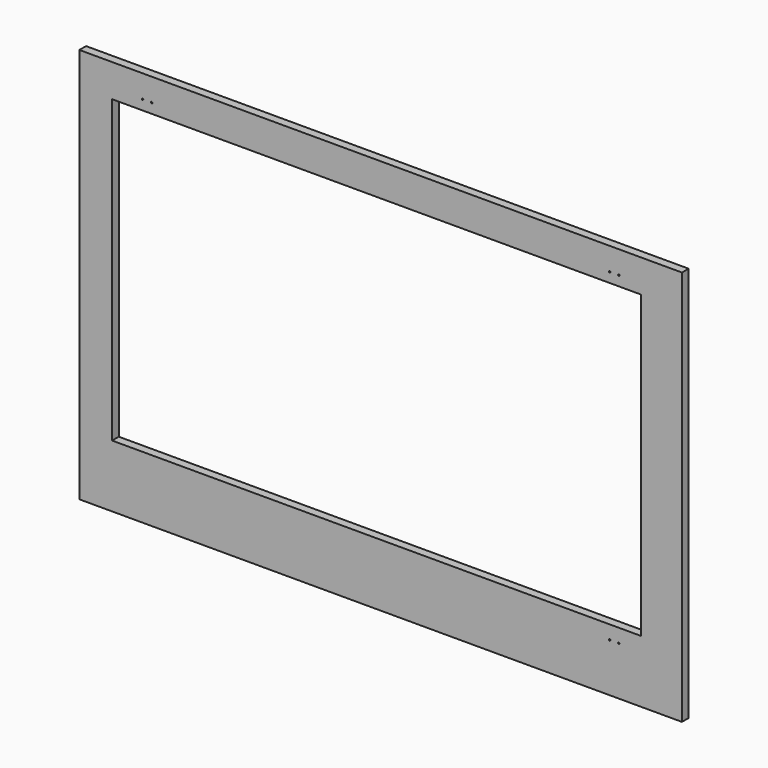
from build123d import *

# Parameters (mm, degrees)
F0_W     = 396
F0_H     = 260
F0_R     = 0.5
F0_W_2   = 347.75
F0_H_2   = 197.5
F1_DEPTH = 5.5


with BuildPart() as f1:
    # F0 (on Front) → F1 (new body)
    with BuildSketch(Plane.XZ):
        Rectangle(F0_W, F0_H)
        with Locations((150.5, -98)):
            Circle(F0_R, mode=Mode.SUBTRACT)
        with Locations((156.5, -98)):
            Circle(F0_R, mode=Mode.SUBTRACT)
        with Locations((-2.625, 9.75)):
            Rectangle(F0_W_2, F0_H_2, mode=Mode.SUBTRACT)
        with Locations((-156.5, 115)):
            Circle(F0_R, mode=Mode.SUBTRACT)
        with Locations((-150.5, 115)):
            Circle(F0_R, mode=Mode.SUBTRACT)
        with Locations((150.5, 115)):
            Circle(F0_R, mode=Mode.SUBTRACT)
        with Locations((156.5, 115)):
            Circle(F0_R, mode=Mode.SUBTRACT)
    extrude(amount=F1_DEPTH)


solid = f1.part
